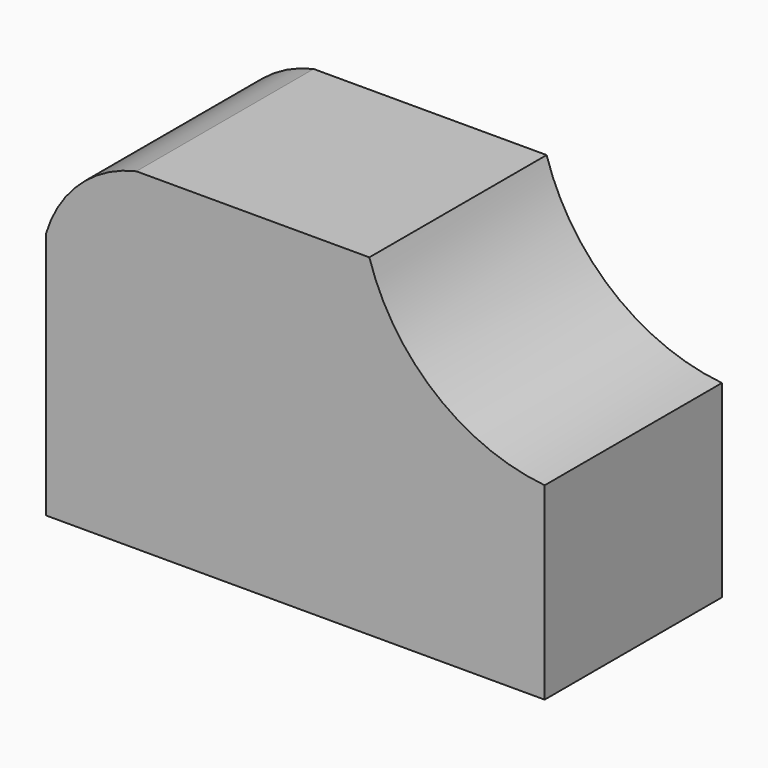
from build123d import *

# Parameters (mm, degrees)
F1_DEPTH = 25.4
F3_DEPTH = 25.4


with BuildPart() as f1:
    # F0 (on Front) → F1 (new body)
    with BuildSketch(Plane.XZ):
        with BuildLine():
            ThreePointArc((10.350582, 38.1), (3.864583, 34.689972), (0, 28.464101))
            Line((0, 28.464101), (0, 0))
            Line((0, 0), (57.15, 0))
            Line((57.15, 0), (57.15, 38.1))
            Line((57.15, 38.1), (10.350582, 38.1))
        make_face()
    extrude(amount=F1_DEPTH)

    # F2 (on face) → F3 (cut)
    with BuildSketch(Plane.XZ.offset(25.4)):
        with BuildLine():
            Line((57.15, 38.1), (37.055083, 38.1))
            ThreePointArc((37.055083, 38.1), (44.607293, 26.821423), (57.15, 21.632718))
            Line((57.15, 21.632718), (57.15, 38.1))
        make_face()
    extrude(amount=-F3_DEPTH, mode=Mode.SUBTRACT)


solid = f1.part
